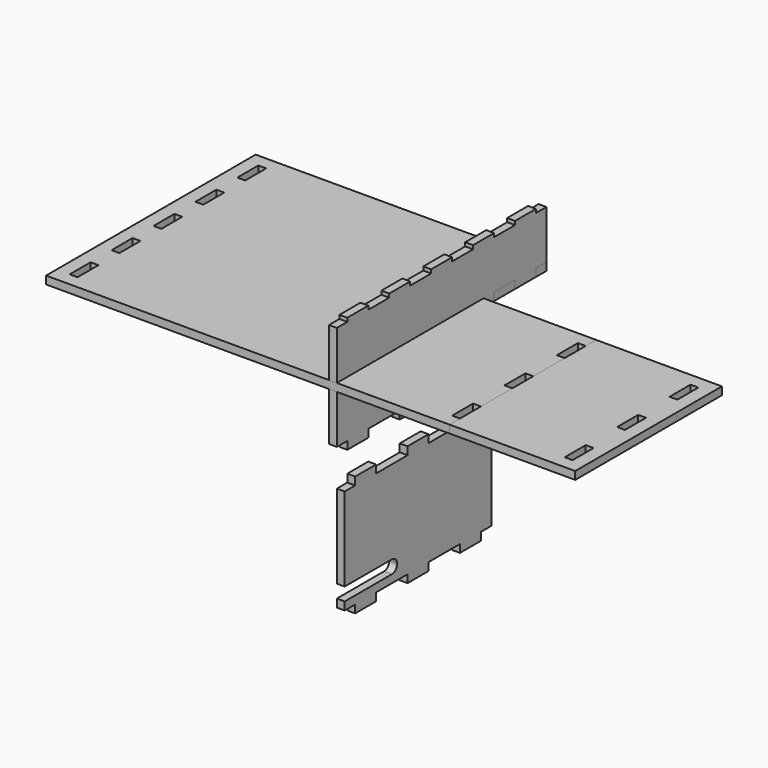
from build123d import *

# Parameters (mm, degrees)
F0_W     = 6
F0_H     = 20
F1_DEPTH = 6
F2_DEPTH = 6
F3_W     = 20
F3_H     = 2.8
F3_H_2   = 6
F4_DEPTH = 6
F5_W     = 20
F5_H     = 3
F5_H_2   = 6
F6_DEPTH = 6
F7_W     = 20
F7_H     = 6
F8_DEPTH = 6


with BuildPart() as f1:
    # F0 (on Top) → F1 (new body)
    with BuildSketch(Plane.XY):
        Polygon((0, 190), (0, 200), (-222, 200), (-222, 0), (0, 0), (0, 10), (-6, 10), (-6, 30), (0, 30), (0, 50), (-6, 50), (-6, 70), (0, 70), (0, 90), (-6, 90), (-6, 110), (0, 110), (0, 130), (-6, 130), (-6, 150), (0, 150), (0, 170), (-6, 170), (-6, 190), align=None)
        with Locations((-209, 20)):
            Rectangle(F0_W, F0_H, mode=Mode.SUBTRACT)
        with Locations((-209, 60)):
            Rectangle(F0_W, F0_H, mode=Mode.SUBTRACT)
        with Locations((-209, 100)):
            Rectangle(F0_W, F0_H, mode=Mode.SUBTRACT)
        with Locations((-209, 140)):
            Rectangle(F0_W, F0_H, mode=Mode.SUBTRACT)
        with Locations((-209, 180)):
            Rectangle(F0_W, F0_H, mode=Mode.SUBTRACT)
        Polygon((86, 10), (86, 0), (172, 0), (172, 10), (166, 10), (166, 30), (172, 30), (172, 60), (166, 60), (166, 80), (172, 80), (172, 110), (166, 110), (166, 130), (172, 130), (172, 140), (86, 140), (86, 130), (86, 110), (86, 80), (86, 60), (86, 30), align=None)
        Polygon((0, 10), (0, 0), (86, 0), (86, 10), (80, 10), (80, 30), (86, 30), (86, 60), (80, 60), (80, 80), (86, 80), (86, 110), (80, 110), (80, 130), (86, 130), (86, 140), (0, 140), (0, 130), (0, 110), (0, 90), (0, 70), (0, 50), (0, 30), align=None)
        Polygon((0, 190), (0, 200), (-222, 200), (-222, 0), (0, 0), (0, 10), (-6, 10), (-6, 30), (0, 30), (0, 50), (-6, 50), (-6, 70), (0, 70), (0, 90), (-6, 90), (-6, 110), (0, 110), (0, 130), (-6, 130), (-6, 150), (0, 150), (0, 170), (-6, 170), (-6, 190), align=None)
        with Locations((-209, 20)):
            Rectangle(F0_W, F0_H, mode=Mode.SUBTRACT)
        with Locations((-209, 60)):
            Rectangle(F0_W, F0_H, mode=Mode.SUBTRACT)
        with Locations((-209, 100)):
            Rectangle(F0_W, F0_H, mode=Mode.SUBTRACT)
        with Locations((-209, 140)):
            Rectangle(F0_W, F0_H, mode=Mode.SUBTRACT)
        with Locations((-209, 180)):
            Rectangle(F0_W, F0_H, mode=Mode.SUBTRACT)
        Polygon((0, 190), (0, 200), (-222, 200), (-222, 0), (0, 0), (0, 10), (-6, 10), (-6, 30), (0, 30), (0, 50), (-6, 50), (-6, 70), (0, 70), (0, 90), (-6, 90), (-6, 110), (0, 110), (0, 130), (-6, 130), (-6, 150), (0, 150), (0, 170), (-6, 170), (-6, 190), align=None)
        with Locations((-209, 20)):
            Rectangle(F0_W, F0_H, mode=Mode.SUBTRACT)
        with Locations((-209, 60)):
            Rectangle(F0_W, F0_H, mode=Mode.SUBTRACT)
        with Locations((-209, 100)):
            Rectangle(F0_W, F0_H, mode=Mode.SUBTRACT)
        with Locations((-209, 140)):
            Rectangle(F0_W, F0_H, mode=Mode.SUBTRACT)
        with Locations((-209, 180)):
            Rectangle(F0_W, F0_H, mode=Mode.SUBTRACT)
        Polygon((172, 10), (172, 0), (182, 0), (182, 140), (172, 140), (172, 130), (172, 110), (172, 80), (172, 60), (172, 30), align=None)
    extrude(amount=F1_DEPTH)


with BuildPart() as f2:
    # F0 (on Top) → F2 (new body)
    with BuildSketch(Plane.XY):
        Polygon((0, 190), (0, 200), (-222, 200), (-222, 0), (0, 0), (0, 10), (-6, 10), (-6, 30), (0, 30), (0, 50), (-6, 50), (-6, 70), (0, 70), (0, 90), (-6, 90), (-6, 110), (0, 110), (0, 130), (-6, 130), (-6, 150), (0, 150), (0, 170), (-6, 170), (-6, 190), align=None)
        with Locations((-209, 20)):
            Rectangle(F0_W, F0_H, mode=Mode.SUBTRACT)
        with Locations((-209, 60)):
            Rectangle(F0_W, F0_H, mode=Mode.SUBTRACT)
        with Locations((-209, 100)):
            Rectangle(F0_W, F0_H, mode=Mode.SUBTRACT)
        with Locations((-209, 140)):
            Rectangle(F0_W, F0_H, mode=Mode.SUBTRACT)
        with Locations((-209, 180)):
            Rectangle(F0_W, F0_H, mode=Mode.SUBTRACT)
        Polygon((0, 10), (0, 0), (86, 0), (86, 10), (80, 10), (80, 30), (86, 30), (86, 60), (80, 60), (80, 80), (86, 80), (86, 110), (80, 110), (80, 130), (86, 130), (86, 140), (0, 140), (0, 130), (0, 110), (0, 90), (0, 70), (0, 50), (0, 30), align=None)
        Polygon((0, 190), (0, 200), (-222, 200), (-222, 0), (0, 0), (0, 10), (-6, 10), (-6, 30), (0, 30), (0, 50), (-6, 50), (-6, 70), (0, 70), (0, 90), (-6, 90), (-6, 110), (0, 110), (0, 130), (-6, 130), (-6, 150), (0, 150), (0, 170), (-6, 170), (-6, 190), align=None)
        with Locations((-209, 20)):
            Rectangle(F0_W, F0_H, mode=Mode.SUBTRACT)
        with Locations((-209, 60)):
            Rectangle(F0_W, F0_H, mode=Mode.SUBTRACT)
        with Locations((-209, 100)):
            Rectangle(F0_W, F0_H, mode=Mode.SUBTRACT)
        with Locations((-209, 140)):
            Rectangle(F0_W, F0_H, mode=Mode.SUBTRACT)
        with Locations((-209, 180)):
            Rectangle(F0_W, F0_H, mode=Mode.SUBTRACT)
    extrude(amount=F2_DEPTH)


with BuildPart() as f4:
    # F3 (on Right) → F4 (new body)
    with BuildSketch(Plane.YZ):
        with Locations((140, 44.4)):
            Rectangle(F3_W, F3_H)
        Polygon((0, 43), (0, 6), (10, 6), (30, 6), (50, 6), (70, 6), (90, 6), (110, 6), (130, 6), (150, 6), (170, 6), (190, 6), (200, 6), (200, 43), (190, 43), (170, 43), (150, 43), (130, 43), (110, 43), (90, 43), (70, 43), (50, 43), (30, 43), (10, 43), align=None)
        with Locations((100, 3)):
            Rectangle(F3_W, F3_H_2)
        with Locations((180, 3)):
            Rectangle(F3_W, F3_H_2)
        with Locations((60, 44.4)):
            Rectangle(F3_W, F3_H)
        with Locations((140, 3)):
            Rectangle(F3_W, F3_H_2)
        with Locations((100, 44.4)):
            Rectangle(F3_W, F3_H)
        with Locations((20, 44.4)):
            Rectangle(F3_W, F3_H)
        with Locations((20, 3)):
            Rectangle(F3_W, F3_H_2)
        with Locations((180, 44.4)):
            Rectangle(F3_W, F3_H)
        with Locations((60, 3)):
            Rectangle(F3_W, F3_H_2)
    extrude(amount=-F4_DEPTH)


with BuildPart() as f6:
    # F5 (on Right) → F6 (new body)
    with BuildSketch(Plane.YZ):
        Polygon((10, 0), (0, 0), (0, -37), (10, -37), (30, -37), (60, -37), (80, -37), (110, -37), (130, -37), (140, -37), (140, 0), (130, 0), (130, -3), (110, -3), (110, 0), (80, 0), (80, -3), (60, -3), (60, 0), (30, 0), (30, -3), (10, -3), align=None)
        with Locations((20, -1.5)):
            Rectangle(F5_W, F5_H)
        with Locations((20, 1.5)):
            Rectangle(F5_W, F5_H)
        with Locations((70, 1.5)):
            Rectangle(F5_W, F5_H)
        with Locations((70, -1.5)):
            Rectangle(F5_W, F5_H)
        with Locations((120, 1.5)):
            Rectangle(F5_W, F5_H)
        with Locations((120, -1.5)):
            Rectangle(F5_W, F5_H)
        with Locations((120, -40)):
            Rectangle(F5_W, F5_H_2)
        with Locations((70, -40)):
            Rectangle(F5_W, F5_H_2)
        with Locations((20, -40)):
            Rectangle(F5_W, F5_H_2)
    extrude(amount=-F6_DEPTH)


with BuildPart() as f8:
    # F7 (on Right) → F8 (new body)
    with BuildSketch(Plane.YZ):
        with Locations((120, -148)):
            Rectangle(F7_W, F7_H)
        with Locations((120, -62)):
            Rectangle(F7_W, F7_H)
        with Locations((20, -62)):
            Rectangle(F7_W, F7_H)
        with Locations((70, -148)):
            Rectangle(F7_W, F7_H)
        with BuildLine():
            Line((10, -65), (0, -65))
            Line((0, -65), (0, -128.890877))
            Line((0, -128.890877), (45, -128.890877))
            ThreePointArc((45, -128.890877), (48.535534, -130.355343), (50, -133.890877))
            ThreePointArc((50, -133.890877), (48.535534, -137.426411), (45, -138.890877))
            Line((45, -138.890877), (0, -138.890877))
            Line((0, -138.890877), (0, -145))
            Line((0, -145), (10, -145))
            Line((10, -145), (30, -145))
            Line((30, -145), (60, -145))
            Line((60, -145), (80, -145))
            Line((80, -145), (110, -145))
            Line((110, -145), (130, -145))
            Line((130, -145), (140, -145))
            Line((140, -145), (140, -65))
            Line((140, -65), (130, -65))
            Line((130, -65), (110, -65))
            Line((110, -65), (80, -65))
            Line((80, -65), (60, -65))
            Line((60, -65), (30, -65))
            Line((30, -65), (10, -65))
        make_face()
        with Locations((20, -148)):
            Rectangle(F7_W, F7_H)
        with Locations((70, -62)):
            Rectangle(F7_W, F7_H)
    extrude(amount=F8_DEPTH)


solid = Compound([f1.part, f2.part, f4.part, f6.part, f8.part])
